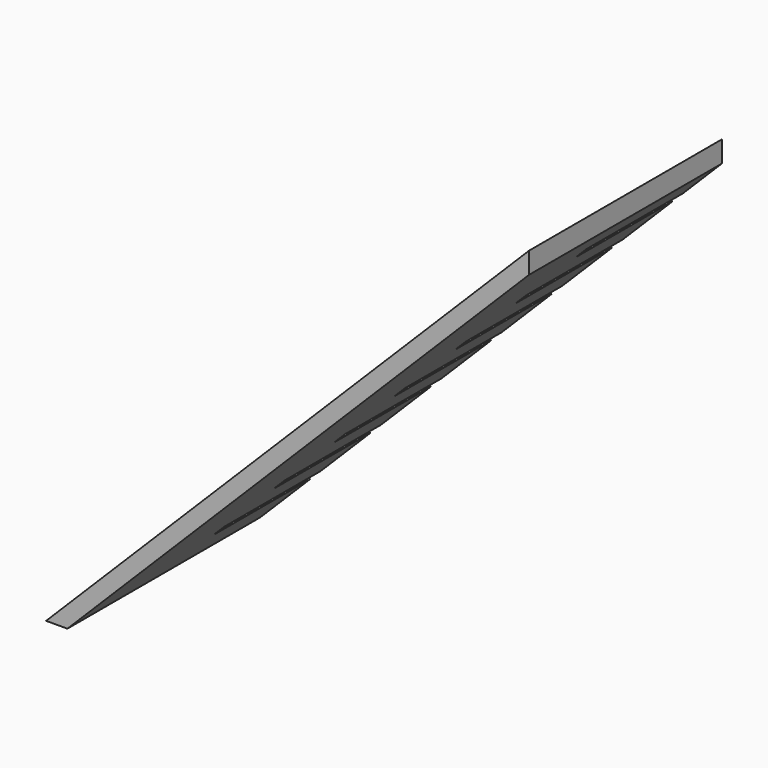
from build123d import *

# Parameters (mm, degrees)
F1_DEPTH = 152.4
F2_W     = 152.4
F2_H     = 19.05
F3_DEPTH = 19.05


with BuildPart() as f1:
    # F0 (on Front) → F1 (new body, symmetric)
    with BuildSketch(Plane.XZ):
        Polygon((273.4386524558, 610.6574162327), (-337.2187637769, 0), (-310.2779954137, 0), (273.4386524558, 583.7166478695), align=None)
    extrude(amount=F1_DEPTH, both=True)

    # F2 (on face) → F3 (cut)
    with BuildSketch(Plane(origin=(-155.1389977069, 0, 155.1389977069), x_dir=(0, 1, 0), z_dir=(0.7071067812, 0, -0.7071067812))):
        with Locations((76.2, 526.72532539)):
            Rectangle(F2_W, F2_H)
        with Locations((76.2, 418.77532539)):
            Rectangle(F2_W, F2_H)
        with Locations((76.2, 310.82532539)):
            Rectangle(F2_W, F2_H)
        with Locations((76.2, 202.87532539)):
            Rectangle(F2_W, F2_H)
        with Locations((76.2, 94.92532539)):
            Rectangle(F2_W, F2_H)
        with Locations((76.2, -13.02467461)):
            Rectangle(F2_W, F2_H)
        with Locations((76.2, -120.97467461)):
            Rectangle(F2_W, F2_H)
    extrude(amount=-F3_DEPTH, mode=Mode.SUBTRACT)


solid = f1.part
